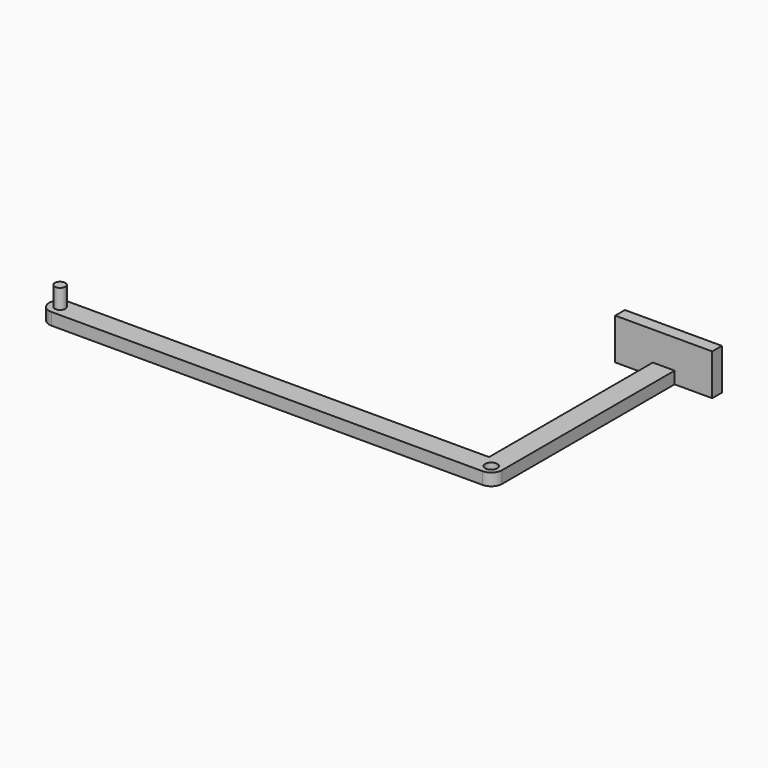
from build123d import *

# Parameters (mm, degrees)
F1_DEPTH = 5
F2_W     = 40
F2_H     = 5
F3_DEPTH = 12
F4_R     = 2.18125
F5_DEPTH = 8
F6_R     = 2.5
F7_DEPTH = 25


with BuildPart() as f1:
    # F0 (on Top) → F1 (new body)
    with BuildSketch(Plane.XY):
        with BuildLine():
            Line((15.5, 98.4), (-24.5, 98.4))
            Line((-24.5, 98.4), (-24.5, 93.4))
            Line((-24.5, 93.4), (-9, 93.4))
            Line((-9, 93.4), (-9, 9))
            Line((-9, 9), (-182.3, 9))
            ThreePointArc((-182.3, 9), (-186.8, 4.5), (-182.3, 0))
            Line((-182.3, 0), (-4.5, 0))
            ThreePointArc((-4.5, 0), (-1.318019, 1.318019), (0, 4.5))
            Line((0, 4.5), (0, 93.4))
            Line((0, 93.4), (15.5, 93.4))
            Line((15.5, 93.4), (15.5, 98.4))
        make_face()
    extrude(amount=F1_DEPTH)

    # F2 (on face) → F3 (join)
    with BuildSketch(Plane.XY.offset(5)):
        with Locations((-4.5, 95.9)):
            Rectangle(F2_W, F2_H)
    extrude(amount=F3_DEPTH)

    # F4 (on face) → F5 (join)
    with BuildSketch(Plane.XY.offset(5)):
        with Locations((-182.3, 4.5)):
            Circle(F4_R)
    extrude(amount=F5_DEPTH)

    # F6 (on face) → F7 (cut)
    with BuildSketch(Plane.XY.offset(5)):
        with Locations((-4.5, 4.5)):
            Circle(F6_R)
    extrude(amount=-F7_DEPTH, mode=Mode.SUBTRACT)


solid = f1.part
